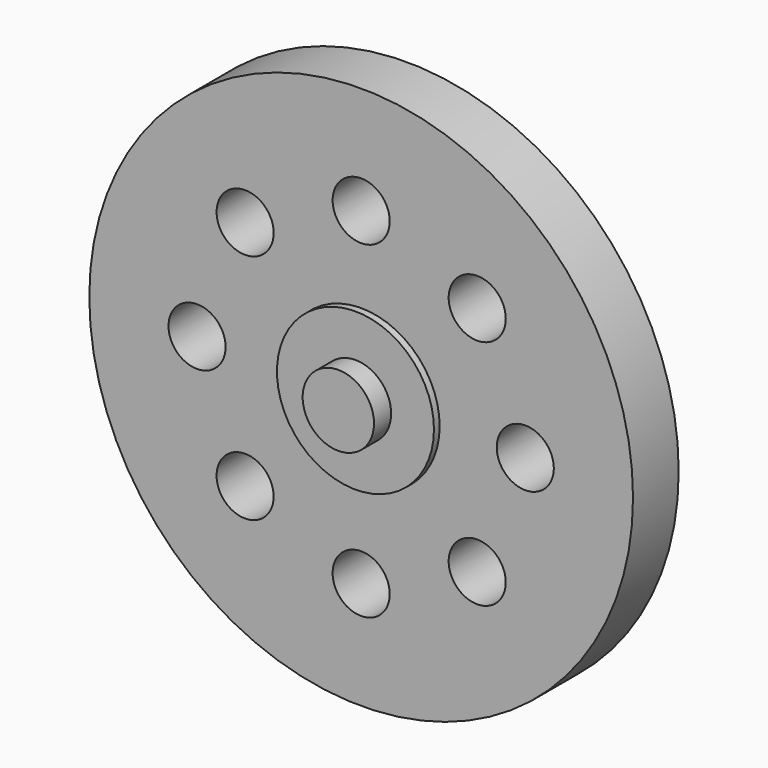
from build123d import *

# Parameters (mm, degrees)
F0_R     = 19.05
F1_DEPTH = 4
F2_R     = 5.5
F2_R_2   = 2.5
F3_DEPTH = 0.5
F4_DEPTH = 1
F5_DEPTH = 1
F6_R     = 3
F7_DEPTH = 7
F8_R     = 2
F9_DEPTH = 25


with BuildPart() as f1:
    # F0 (on Front) → F1 (new body)
    with BuildSketch(Plane.XZ):
        Circle(F0_R)
    extrude(amount=F1_DEPTH)

    # F2 (on face) → F3 (join)
    with BuildSketch(Plane.XZ.offset(4)):
        Circle(F2_R)
        Circle(F2_R_2, mode=Mode.SUBTRACT)
    extrude(amount=F3_DEPTH)

    # F4 (add): a face of the model
    f4_faces = [f1.faces().sort_by_distance(p)[0] for p in [
        (0, -4, 0),
    ]]
    extrude(f4_faces, amount=F4_DEPTH)

    # F5 (add): a face of the model
    f5_faces = [f1.faces().sort_by_distance(p)[0] for p in [
        (0, -5, 0),
    ]]
    extrude(f5_faces, amount=F5_DEPTH)

    # F6 (on face) → F7 (join)
    with BuildSketch(Plane(origin=(0, 0, 0), x_dir=(-1, 0, 0), z_dir=(0, 1, 0))):
        Circle(F6_R)
    extrude(amount=F7_DEPTH)

    # F8 (on face) → F9 (cut)
    with BuildSketch(Plane.XZ.offset(4)):
        with Locations((0, 11.5)):
            Circle(F8_R)
        with Locations((-8.1317279836, 8.1317279836)):
            Circle(F8_R)
        with Locations((-11.5, 0)):
            Circle(F8_R)
        with Locations((-8.1317279836, -8.1317279836)):
            Circle(F8_R)
        with Locations((0, -11.5)):
            Circle(F8_R)
        with Locations((8.1317279836, -8.1317279836)):
            Circle(F8_R)
        with Locations((11.5, 0)):
            Circle(F8_R)
        with Locations((8.1317279836, 8.1317279836)):
            Circle(F8_R)
    extrude(amount=-F9_DEPTH, mode=Mode.SUBTRACT)


solid = f1.part
